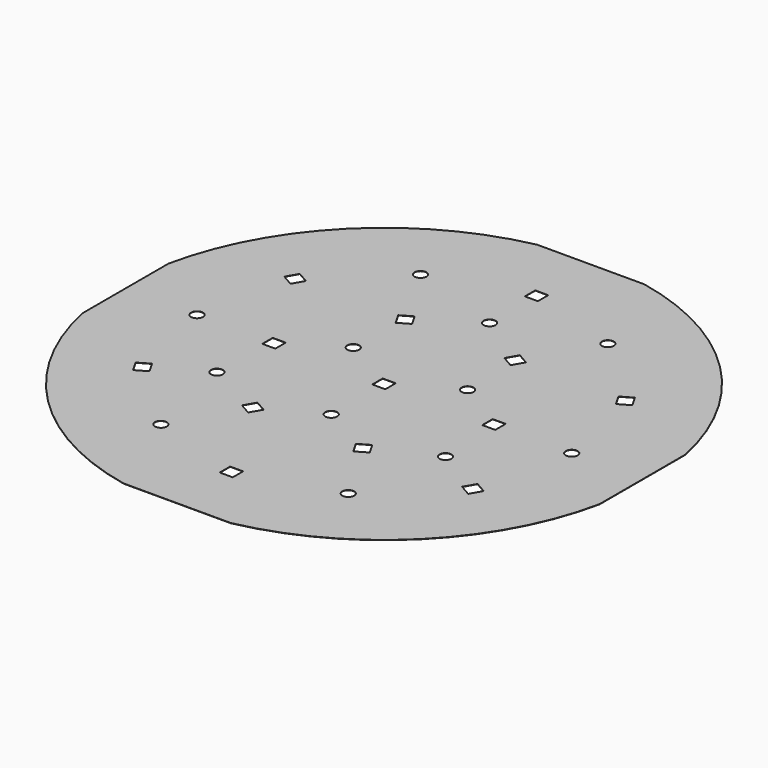
from build123d import *

# Parameters (mm, degrees)
F0_R     = 152.4
F1_DEPTH = 0.14732
F2_W     = 12.7
F2_H     = 127
F2_W_2   = 127
F2_H_2   = 12.7
F3_DEPTH = 25.4
F5_D     = 6.858
F6_W     = 7.5
F6_H     = 7.5
F7_DEPTH = 25.4


with BuildPart() as f1:
    # F0 (on Top) → F1 (new body)
    with BuildSketch(Plane.XY):
        Circle(F0_R)
    extrude(amount=F1_DEPTH)

    # F2 (on face) → F3 (cut)
    with BuildSketch(Plane.XY.offset(0.14732)):
        with Locations((-155.575, 0)):
            Rectangle(F2_W, F2_H)
        with Locations((0, -155.575)):
            Rectangle(F2_W_2, F2_H_2)
        with Locations((0, 155.575)):
            Rectangle(F2_W_2, F2_H_2)
        with Locations((155.575, 0)):
            Rectangle(F2_W, F2_H)
    extrude(amount=-F3_DEPTH, mode=Mode.SUBTRACT)

    # F5 (through all)
    with Locations(Plane.XY.offset(0.14732)):
        with Locations((-53.868412, -93.672059), (54.294765, -93.672059), (65.991136, -38.1), (0, -38.1), (-65.991136, -38.1), (-107.95, 0), (-32.995568, 19.05), (32.995568, 19.05), (108.376353, 0), (0, 76.2), (54.294765, 93.672059), (-53.868412, 93.672059)):
            Hole(F5_D / 2)

    # F6 (on face) → F7 (cut)
    with BuildSketch(Plane.XY.offset(0.14732)):
        Rectangle(F6_W, F6_H)
        with Locations((-63.4965, 0)):
            Rectangle(F6_W, F6_H)
        with Locations((0, 110.109)):
            Rectangle(F6_W, F6_H)
        Polygon((-36.870845, -56.362177), (-30.375655, -60.112177), (-26.625655, -53.616987), (-33.120845, -49.866987), align=None)
        Polygon((30.375655, -60.112177), (36.870845, -56.362177), (33.120845, -49.866987), (26.625655, -53.616987), align=None)
        with Locations((63.4965, 0)):
            Rectangle(F6_W, F6_H)
        Polygon((36.870845, 56.362177), (30.375655, 60.112177), (26.625655, 53.616987), (33.120845, 49.866987), align=None)
        Polygon((-30.375655, 60.112177), (-36.870845, 56.362177), (-33.120845, 49.866987), (-26.625655, 53.616987), align=None)
        Polygon((-100.479786, 53.681905), (-93.984596, 49.931905), (-90.234596, 56.427095), (-96.729786, 60.177095), align=None)
        Polygon((-96.729786, -60.177095), (-90.234596, -56.427095), (-93.984596, -49.931905), (-100.479786, -53.681905), align=None)
        with Locations((0, -110.109)):
            Rectangle(F6_W, F6_H)
        Polygon((100.479786, -53.681905), (93.984596, -49.931905), (90.234596, -56.427095), (96.729786, -60.177095), align=None)
        Polygon((96.729786, 60.177095), (90.234596, 56.427095), (93.984596, 49.931905), (100.479786, 53.681905), align=None)
    extrude(amount=-F7_DEPTH, mode=Mode.SUBTRACT)


solid = f1.part
